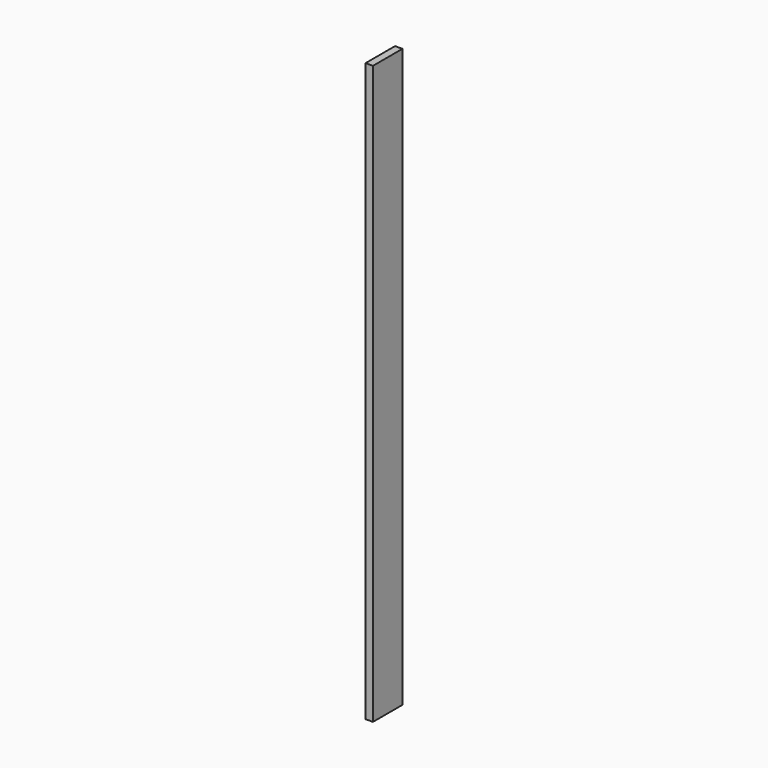
from build123d import *

# Parameters (mm, degrees)
F0_W = 30
F0_H = 150


with BuildPart() as f2:
    # F2: sweep along a path in F1
    with BuildLine(Plane.YZ) as f2_path:
        Line((0, 0), (0, 2350))
    # F0 (on Top) → F2 (sweep)
    with BuildSketch(Plane.XY):
        with Locations((-15, -75)):
            Rectangle(F0_W, F0_H)
    sweep(path=f2_path.line)


solid = f2.part
